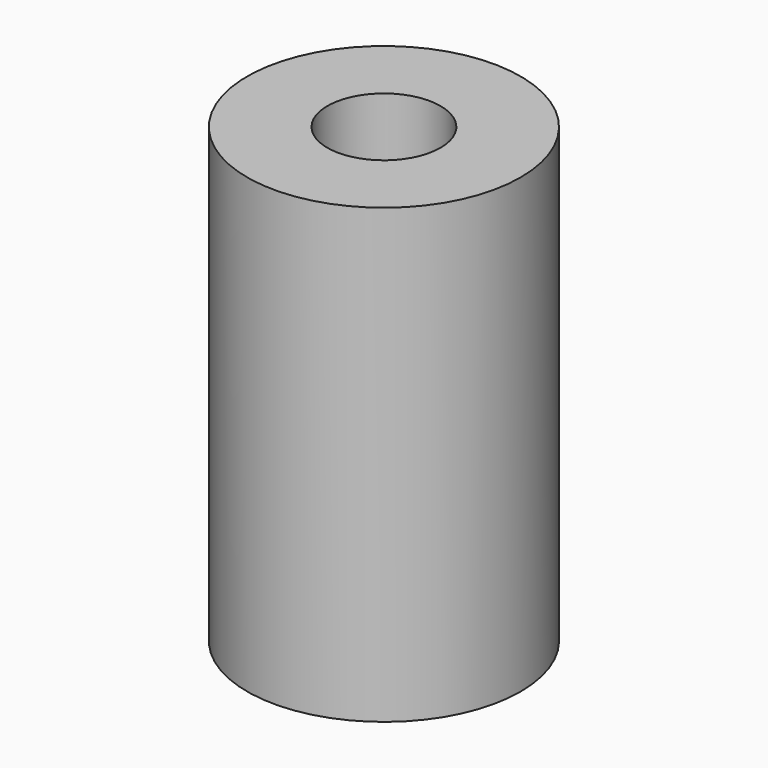
from build123d import *

# Parameters (mm, degrees)
SKETCH_R    = 3.683
PAD_DEPTH   = 12.192
SKETCH001_R = 1.524
HOLE_DEPTH  = 24.9936


with BuildPart() as part:
    # Sketch → Pad (new body)
    with BuildSketch(Plane.XY):
        Circle(SKETCH_R)
    extrude(amount=PAD_DEPTH)

    # Sketch001 (on Face3 of Pad) → Hole (cut)
    with BuildSketch(Plane.XY.offset(12.192)):
        Circle(SKETCH001_R)
    extrude(amount=-HOLE_DEPTH, mode=Mode.SUBTRACT)


solid = part.part
